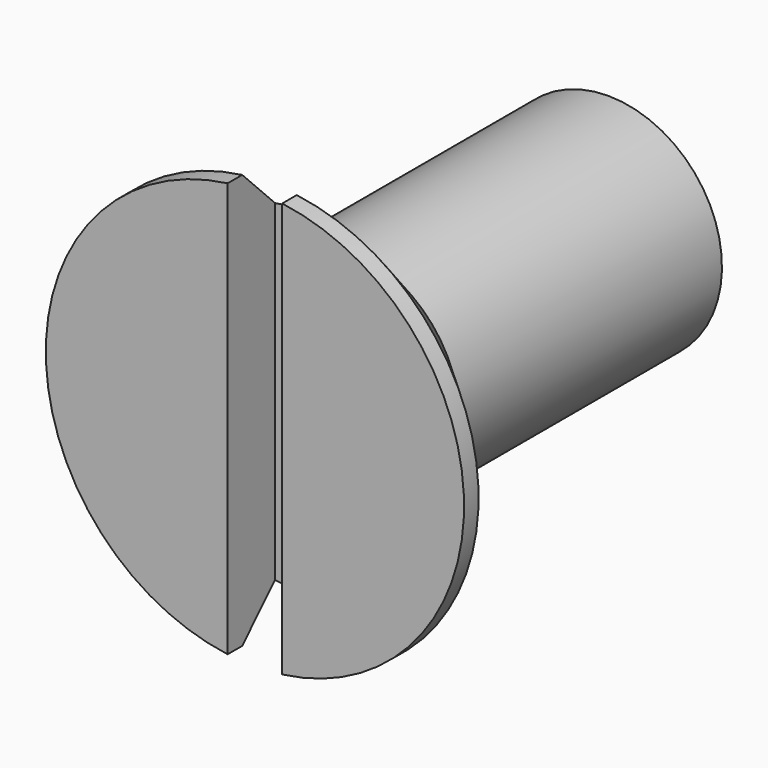
from build123d import *

# Parameters (mm, degrees)
SKETCH001_W  = 9.2
SKETCH001_H  = 1.2
POCKET_DEPTH = 1.3


with BuildPart() as part:
    # Sketch → Revolution (revolve)
    with BuildSketch(Plane.YZ):
        Polygon((0, 0), (0, 4.6), (0.4, 4.6), (2.5, 2.5), (9.717098, 2.5), (10, 2.01), (10, 0), align=None)
    revolve(axis=Axis((0, 0, 0), (0, 1, 0)))

    # Sketch001 → Pocket (cut)
    with BuildSketch(Plane(origin=(0, 0, 0), x_dir=(0, 0, -1), z_dir=(0, -1, 0))):
        Rectangle(SKETCH001_W, SKETCH001_H)
    extrude(amount=-POCKET_DEPTH, mode=Mode.SUBTRACT)


solid = part.part
